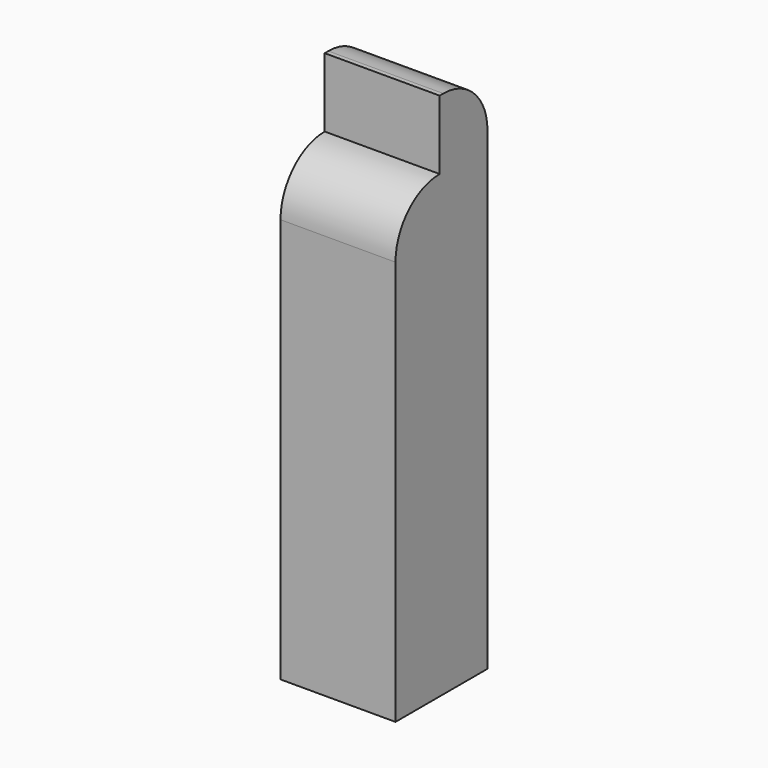
from build123d import *

# Parameters (mm, degrees)
F0_W     = 63.5
F0_H     = 63.5
F1_DEPTH = 254
F2_R     = 30.48
F3_W     = 63.5
F3_H     = 33.02
F4_DEPTH = 38.1
F5_R     = 30.48


with BuildPart() as f1:
    # F0 (on Top) → F1 (new body)
    with BuildSketch(Plane.XY):
        with Locations((31.75, 31.75)):
            Rectangle(F0_W, F0_H)
    extrude(amount=F1_DEPTH)

    # F2
    f2_edges = [f1.edges().sort_by_distance(p)[0] for p in [
        (31.75, 0, 254),
    ]]
    fillet(f2_edges, radius=F2_R)

    # F3 (on face) → F4 (join)
    with BuildSketch(Plane.XY.offset(254)):
        with Locations((31.75, 46.99)):
            Rectangle(F3_W, F3_H)
    extrude(amount=F4_DEPTH)

    # F5
    f5_edges = [f1.edges().sort_by_distance(p)[0] for p in [
        (31.75, 63.5, 292.1),
    ]]
    fillet(f5_edges, radius=F5_R)


solid = f1.part
